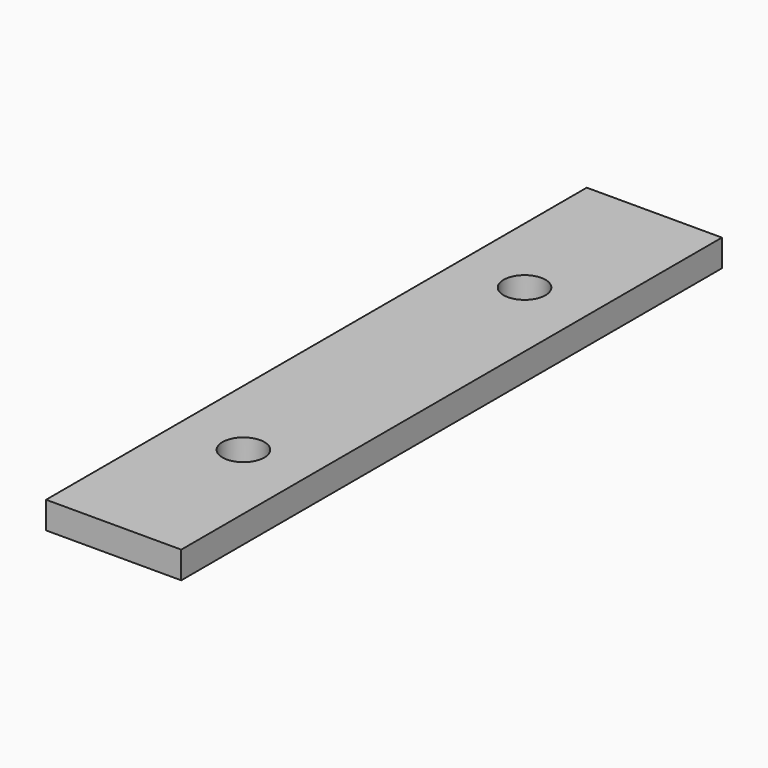
from build123d import *

# Parameters (mm, degrees)
CYLINDER007_R     = 1.55
CYLINDER007_DEPTH = 10
CYLINDER006_R     = 1.55
CYLINDER006_DEPTH = 10
BOX003_W          = 10
BOX003_H          = 50
BOX003_DEPTH      = 2


with BuildPart() as cylinder007:
    # Cylinder007 → Cylinder007 (new body)
    with BuildSketch(Plane(origin=(-5, 38, 14), x_dir=(1, 0, 0), z_dir=(0, 0, 1))):
        Circle(CYLINDER007_R)
    extrude(amount=CYLINDER007_DEPTH)


with BuildPart() as cylinder006:
    # Cylinder006 → Cylinder006 (new body)
    with BuildSketch(Plane(origin=(-5, 12, 14), x_dir=(1, 0, 0), z_dir=(0, 0, 1))):
        Circle(CYLINDER006_R)
    extrude(amount=CYLINDER006_DEPTH)


with BuildPart() as lip018:
    # Box003 → Box003 (new body)
    with BuildSketch(Plane(origin=(-10, 0, 18), x_dir=(1, 0, 0), z_dir=(0, 0, 1))):
        with Locations((5, 25)):
            Rectangle(BOX003_W, BOX003_H)
    extrude(amount=BOX003_DEPTH)

    # Cut006: cut Cylinder006
    add(cylinder006.part, mode=Mode.SUBTRACT)

    # Cut007: cut Cylinder007
    add(cylinder007.part, mode=Mode.SUBTRACT)


solid = lip018.part
